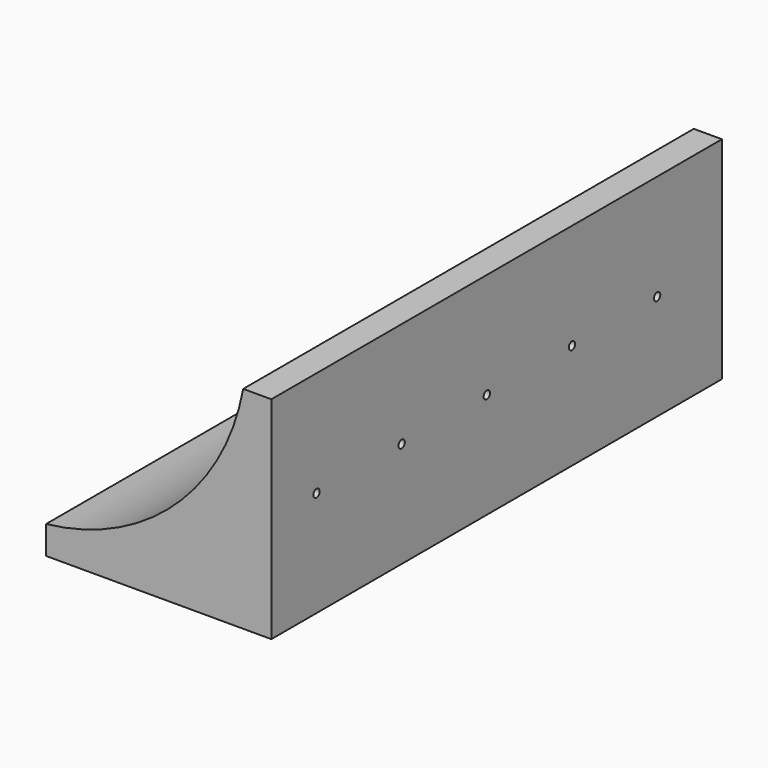
from build123d import *

# Parameters (mm, degrees)
F1_DEPTH = 254
F3_D     = 3.5814
F3_DEPTH = 19.05
F3_TIP   = 1.0759611105


with BuildPart() as f1:
    # F0 (on Front) → F1 (new body)
    with BuildSketch(Plane.XZ):
        Polygon((49.1248931152, -56.7675527828), (-39.7751068848, -57.0361235134), (48.4362465841, -57.0361235134), (49.1248931152, -57.0361235134), align=None)
        with BuildLine():
            ThreePointArc((49.1248931152, 25.5138764866), (18.3482789064, -30.4863082116), (-39.7751068848, -57.0361235134))
            Line((-39.7751068848, -57.0361235134), (49.1248931152, -56.7675527828))
            Line((49.1248931152, -56.7675527828), (49.1248931152, 25.5138764866))
        make_face()
        Polygon((48.4362465841, -57.0361235134), (-39.7751068848, -57.0361235134), (-39.7751068848, -69.7361235134), (61.8248931152, -69.7361235134), (61.8248931152, -57.0361235134), (55.4748931152, -57.0361235134), (49.1248931152, -57.0361235134), align=None)
        Polygon((49.1248931152, 25.5138764866), (49.1248931152, -56.7675527828), (49.1248931152, -57.0361235134), (55.4748931152, -57.0361235134), (61.8248931152, -57.0361235134), (61.8248931152, 25.5138764866), align=None)
    extrude(amount=F1_DEPTH)

    # F3
    with Locations(Plane.YZ.offset(61.8248931152)):
        with Locations((-228.5564392805, -22.1111235134), (-180.5504392805, -22.1111235134), (-132.5444392805, -22.1111235134), (-84.5384392805, -22.1111235134), (-36.5324392805, -22.1111235134)):
            Hole(F3_D / 2, depth=F3_DEPTH)
            with Locations((0, 0, -(F3_DEPTH + F3_TIP / 2))):  # 118° drill point
                Cone(0, F3_D / 2, F3_TIP, mode=Mode.SUBTRACT)


solid = f1.part
